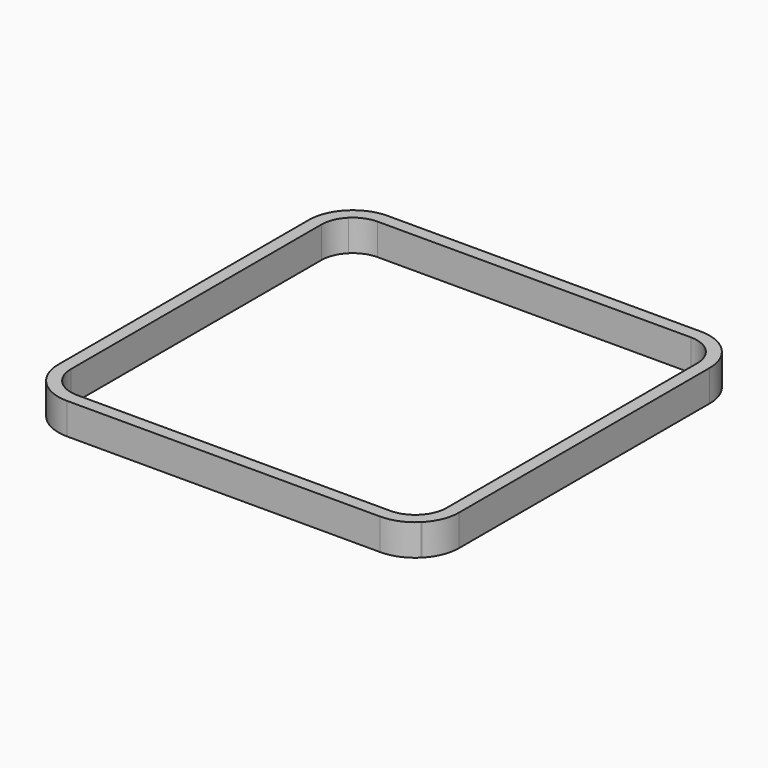
from build123d import *

# Parameters (mm, degrees)
F1_DEPTH = 5


with BuildPart() as f1:
    # F0 (on Top) → F1 (new body)
    with BuildSketch(Plane.XY):
        with BuildLine():
            ThreePointArc((20.1010205144, 30), (22.3542486889, 31.4807406984), (25, 32))
            Line((25, 32), (-25, 32))
            ThreePointArc((-25, 32), (-22.3542486889, 31.4807406984), (-20.1010205144, 30))
            Line((-20.1010205144, 30), (20.1010205144, 30))
        make_face()
        with BuildLine():
            Line((-25, -32), (25, -32))
            ThreePointArc((25, -32), (22.3542486889, -31.4807406984), (20.1010205144, -30))
            Line((20.1010205144, -30), (-20.1010205144, -30))
            ThreePointArc((-20.1010205144, -30), (-22.3542486889, -31.4807406984), (-25, -32))
        make_face()
        with BuildLine():
            Line((32, -25), (32, 25))
            ThreePointArc((32, 25), (31.4807406984, 22.3542486889), (30, 20.1010205144))
            Line((30, 20.1010205144), (30, -20.1010205144))
            ThreePointArc((30, -20.1010205144), (31.4807406984, -22.3542486889), (32, -25))
        make_face()
        with BuildLine():
            ThreePointArc((-30, 20.1010205144), (-31.4807406984, 22.3542486889), (-32, 25))
            Line((-32, 25), (-32, -25))
            ThreePointArc((-32, -25), (-31.4807406984, -22.3542486889), (-30, -20.1010205144))
            Line((-30, -20.1010205144), (-30, 20.1010205144))
        make_face()
        with BuildLine():
            Line((25, 30), (29.8989794856, 30))
            ThreePointArc((29.8989794856, 30), (27.6457513111, 31.4807406984), (25, 32))
            ThreePointArc((25, 32), (22.3542486889, 31.4807406984), (20.1010205144, 30))
            Line((20.1010205144, 30), (25, 30))
        make_face()
        with BuildLine():
            ThreePointArc((-20.1010205144, 30), (-22.3542486889, 31.4807406984), (-25, 32))
            ThreePointArc((-25, 32), (-27.6457513111, 31.4807406984), (-29.8989794856, 30))
            Line((-29.8989794856, 30), (-24.9999999811, 30))
            Line((-24.9999999811, 30), (-20.1010205144, 30))
        make_face()
        with BuildLine():
            ThreePointArc((20.1010205144, -30), (22.3542486889, -31.4807406984), (25, -32))
            ThreePointArc((25, -32), (27.6457513111, -31.4807406984), (29.8989794856, -30))
            Line((29.8989794856, -30), (25, -30))
            Line((25, -30), (20.1010205144, -30))
        make_face()
        with BuildLine():
            ThreePointArc((-29.8989794856, -30), (-27.6457513111, -31.4807406984), (-25, -32))
            ThreePointArc((-25, -32), (-22.3542486889, -31.4807406984), (-20.1010205144, -30))
            Line((-20.1010205144, -30), (-25.0000000611, -30))
            Line((-25.0000000611, -30), (-29.8989794856, -30))
        make_face()
        with BuildLine():
            ThreePointArc((32, 25), (31.4807406984, 27.6457513111), (30, 29.8989794856))
            Line((30, 29.8989794856), (30, 25))
            Line((30, 25), (30, 20.1010205144))
            ThreePointArc((30, 20.1010205144), (31.4807406984, 22.3542486889), (32, 25))
        make_face()
        with BuildLine():
            ThreePointArc((30, -29.8989794856), (31.4807406984, -27.6457513111), (32, -25))
            ThreePointArc((32, -25), (31.4807406984, -22.3542486889), (30, -20.1010205144))
            Line((30, -20.1010205144), (30, -25))
            Line((30, -25), (30, -29.8989794856))
        make_face()
        with BuildLine():
            ThreePointArc((-30, 29.8989794856), (-31.4807406984, 27.6457513111), (-32, 25))
            ThreePointArc((-32, 25), (-31.4807406984, 22.3542486889), (-30, 20.1010205144))
            Line((-30, 20.1010205144), (-30, 25))
            Line((-30, 25), (-30, 29.8989794856))
        make_face()
        with BuildLine():
            ThreePointArc((-30, -20.1010205144), (-31.4807406984, -22.3542486889), (-32, -25))
            ThreePointArc((-32, -25), (-31.4807406984, -27.6457513111), (-30, -29.8989794856))
            Line((-30, -29.8989794856), (-30, -25))
            Line((-30, -25), (-30, -20.1010205144))
        make_face()
        with BuildLine():
            Line((-28.5355339059, 28.5355339059), (-29.9497474683, 29.9497474683))
            ThreePointArc((-29.9497474683, 29.9497474683), (-29.9749384939, 29.9244275791), (-30, 29.8989794856))
            Line((-30, 29.8989794856), (-30, 25))
            ThreePointArc((-30, 25), (-29.6193976626, 26.9134171618), (-28.5355339059, 28.5355339059))
        make_face()
        with BuildLine():
            ThreePointArc((29.9497474683, 29.9497474683), (29.9244275791, 29.9749384939), (29.8989794856, 30))
            Line((29.8989794856, 30), (25, 30))
            ThreePointArc((25, 30), (26.9134171618, 29.6193976626), (28.5355339059, 28.5355339059))
            Line((28.5355339059, 28.5355339059), (29.9497474683, 29.9497474683))
        make_face()
        with BuildLine():
            Line((30, 25), (30, 29.8989794856))
            ThreePointArc((30, 29.8989794856), (29.9749384939, 29.9244275791), (29.9497474683, 29.9497474683))
            Line((29.9497474683, 29.9497474683), (28.5355339059, 28.5355339059))
            ThreePointArc((28.5355339059, 28.5355339059), (29.6193976626, 26.9134171618), (30, 25))
        make_face()
        with BuildLine():
            ThreePointArc((29.9497474683, -29.9497474683), (29.9749384939, -29.9244275791), (30, -29.8989794856))
            Line((30, -29.8989794856), (30, -25))
            ThreePointArc((30, -25), (29.6193976626, -26.9134171618), (28.5355339059, -28.5355339059))
            Line((28.5355339059, -28.5355339059), (29.9497474683, -29.9497474683))
        make_face()
        with BuildLine():
            ThreePointArc((29.8989794856, -30), (29.9244275791, -29.9749384939), (29.9497474683, -29.9497474683))
            Line((29.9497474683, -29.9497474683), (28.5355339059, -28.5355339059))
            ThreePointArc((28.5355339059, -28.5355339059), (26.9134171618, -29.6193976626), (25, -30))
            Line((25, -30), (29.8989794856, -30))
        make_face()
        with BuildLine():
            ThreePointArc((-29.9497474683, -29.9497474683), (-29.9244275791, -29.9749384939), (-29.8989794856, -30))
            Line((-29.8989794856, -30), (-25.0000000611, -30))
            ThreePointArc((-25.0000000611, -30), (-26.91341719, -29.6193976509), (-28.5355339059, -28.5355339059))
            Line((-28.5355339059, -28.5355339059), (-29.9497474683, -29.9497474683))
        make_face()
        with BuildLine():
            Line((-30, -25), (-30, -29.8989794856))
            ThreePointArc((-30, -29.8989794856), (-29.9749384939, -29.9244275791), (-29.9497474683, -29.9497474683))
            Line((-29.9497474683, -29.9497474683), (-28.5355339059, -28.5355339059))
            ThreePointArc((-28.5355339059, -28.5355339059), (-29.6193976626, -26.9134171618), (-30, -25))
        make_face()
        with BuildLine():
            Line((-24.9999999811, 30), (-29.8989794856, 30))
            ThreePointArc((-29.8989794856, 30), (-29.9244275791, 29.9749384939), (-29.9497474683, 29.9497474683))
            Line((-29.9497474683, 29.9497474683), (-28.5355339059, 28.5355339059))
            ThreePointArc((-28.5355339059, 28.5355339059), (-26.9134171531, 29.6193976662), (-24.9999999811, 30))
        make_face()
    extrude(amount=F1_DEPTH)


solid = f1.part
